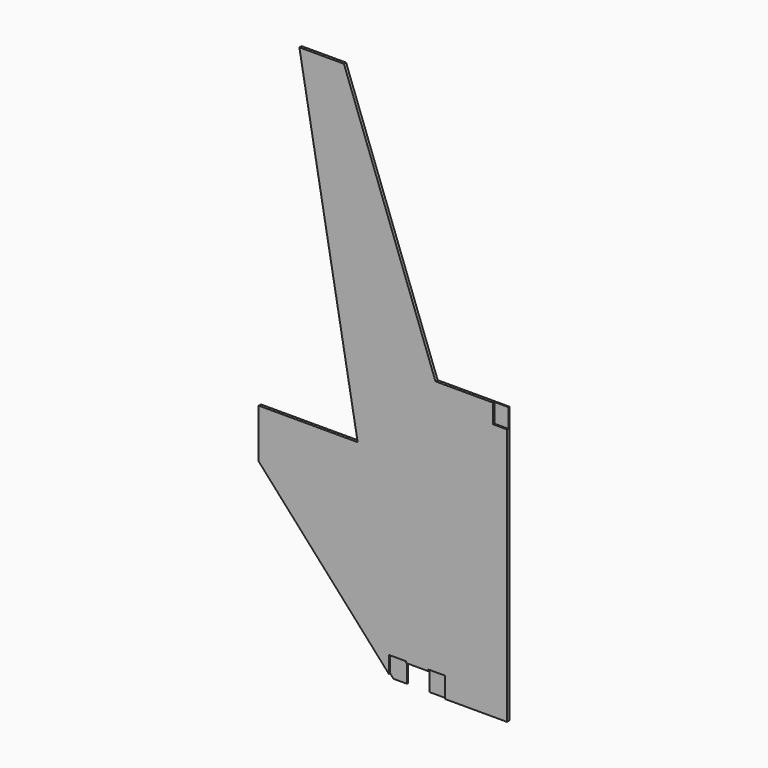
from build123d import *

# Parameters (mm, degrees)
F0_W     = 45
F0_H     = 62
F1_DEPTH = 9
F2_DEPTH = 5


with BuildPart() as f1:
    # F0 (on Front) → F1 (new body)
    with BuildSketch(Plane.XZ):
        Polygon((-808.500336, 483.387362), (-384.946935, 12.236151), (-384.946935, 67), (-329.946935, 67), (-329.946935, 62), (-256.946935, 62), (-256.946935, 67), (-201.946935, 67), (-201.946935, 0), (-0.317524, 0), (-0.317524, 838), (-45.317524, 838), (-45.317524, 900), (-233.317524, 900), (-531.298835, 1713.119388), (-676.298835, 1713.119388), (-486.500336, 643.387362), (-808.500336, 643.387362), align=None)
        Polygon((-384.946935, 12.236151), (-373.946935, 0), (-329.946935, 0), (-329.946935, 62), (-329.946935, 67), (-384.946935, 67), align=None)
        Polygon((-256.946935, 67), (-256.946935, 62), (-256.946935, 0), (-201.946935, 0), (-201.946935, 67), align=None)
        with Locations((-22.817524, 869)):
            Rectangle(F0_W, F0_H)
    extrude(amount=-F1_DEPTH)

    # F0 (on Front) → F2 (cut)
    with BuildSketch(Plane.XZ):
        with Locations((-22.817524, 869)):
            Rectangle(F0_W, F0_H)
        Polygon((-384.946935, 12.236151), (-373.946935, 0), (-329.946935, 0), (-329.946935, 62), (-329.946935, 67), (-384.946935, 67), align=None)
        Polygon((-256.946935, 67), (-256.946935, 62), (-256.946935, 0), (-201.946935, 0), (-201.946935, 67), align=None)
    extrude(amount=-F2_DEPTH, mode=Mode.SUBTRACT)


solid = f1.part
